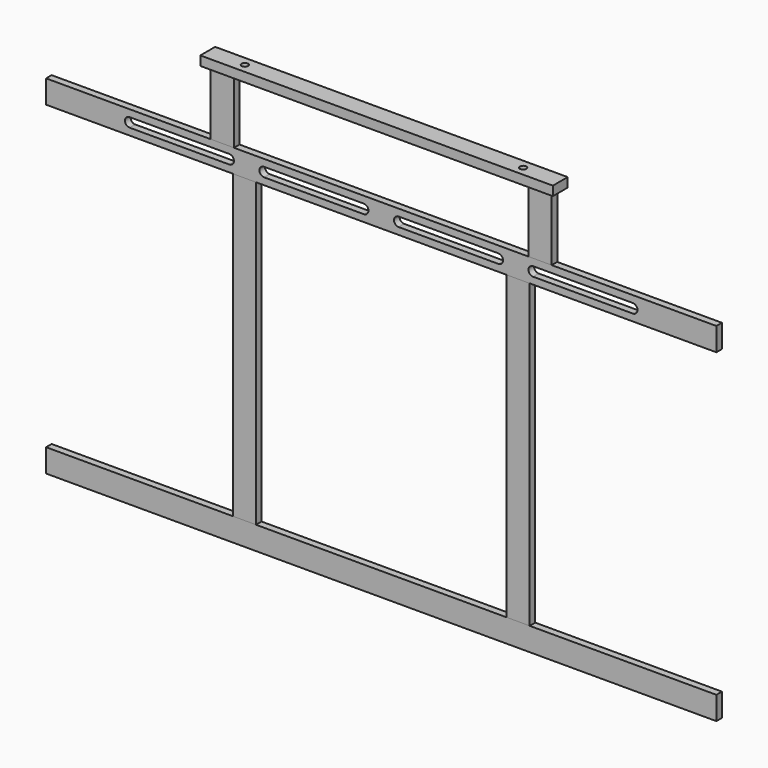
from build123d import *

# Parameters (mm, degrees)
F0_W     = 50
F0_H     = 650
F1_DEPTH = 15
F2_W     = 1445
F2_H     = 50
F3_DEPTH = 15
F4_W     = 50
F4_H     = 140
F5_DEPTH = 15
F6_W     = 760
F6_H     = 40
F7_DEPTH = 20
F9_D     = 14


with BuildPart() as f1:
    # F0 (on Front) → F1 (new body)
    with BuildSketch(Plane.XZ):
        with Locations((295, 325)):
            Rectangle(F0_W, F0_H)
    extrude(amount=F1_DEPTH)


with BuildPart() as f1b:
    # F0 (on Front) → F1, piece 2 (new body)
    with BuildSketch(Plane.XZ):
        with Locations((-295, 325)):
            Rectangle(F0_W, F0_H)
    extrude(amount=F1_DEPTH)


with BuildPart() as f3:
    # F2 (on Front) → F3 (new body)
    with BuildSketch(Plane.XZ):
        with Locations((0, 675)):
            Rectangle(F2_W, F2_H)
        with BuildLine():
            Line((-542.5, 685), (-327.5, 685))
            ThreePointArc((-327.5, 685), (-317.5, 675), (-327.5, 665))
            Line((-327.5, 665), (-542.5, 665))
            ThreePointArc((-542.5, 665), (-552.5, 675), (-542.5, 685))
        make_face(mode=Mode.SUBTRACT)
        with BuildLine():
            ThreePointArc((-37.5, 685), (-27.5, 675), (-37.5, 665))
            Line((-37.5, 665), (-252.5, 665))
            ThreePointArc((-252.5, 665), (-262.5, 675), (-252.5, 685))
            Line((-252.5, 685), (-37.5, 685))
        make_face(mode=Mode.SUBTRACT)
        with BuildLine():
            ThreePointArc((37.5, 665), (27.5, 675), (37.5, 685))
            Line((37.5, 685), (252.5, 685))
            ThreePointArc((252.5, 685), (262.5, 675), (252.5, 665))
            Line((252.5, 665), (37.5, 665))
        make_face(mode=Mode.SUBTRACT)
        with BuildLine():
            ThreePointArc((327.5, 665), (317.5, 675), (327.5, 685))
            Line((327.5, 685), (542.5, 685))
            ThreePointArc((542.5, 685), (552.5, 675), (542.5, 665))
            Line((542.5, 665), (327.5, 665))
        make_face(mode=Mode.SUBTRACT)
    extrude(amount=F3_DEPTH)


with BuildPart() as f3b:
    # F2 (on Front) → F3, piece 2 (new body)
    with BuildSketch(Plane.XZ):
        with Locations((0, -25)):
            Rectangle(F2_W, F2_H)
    extrude(amount=F3_DEPTH)


with BuildPart() as f5:
    # F4 (on Front) → F5 (new body)
    with BuildSketch(Plane.XZ):
        with Locations((-342.5, 770)):
            Rectangle(F4_W, F4_H)
    extrude(amount=F5_DEPTH)


with BuildPart() as f5b:
    # F4 (on Front) → F5, piece 2 (new body)
    with BuildSketch(Plane.XZ):
        with Locations((342.5, 770)):
            Rectangle(F4_W, F4_H)
    extrude(amount=F5_DEPTH)


with BuildPart() as f7:
    # F6 (on face) → F7 (new body)
    with BuildSketch(Plane.XY.offset(840)):
        with Locations((0, -7.5)):
            Rectangle(F6_W, F6_H)
    extrude(amount=F7_DEPTH)

    # F9 (through all)
    with Locations(Plane.XY.offset(860)):
        with Locations((-300, -7.5), (300, -7.5)):
            Hole(F9_D / 2)


solid = Compound([f1.part, f1b.part, f3.part, f3b.part, f5.part, f5b.part, f7.part])
